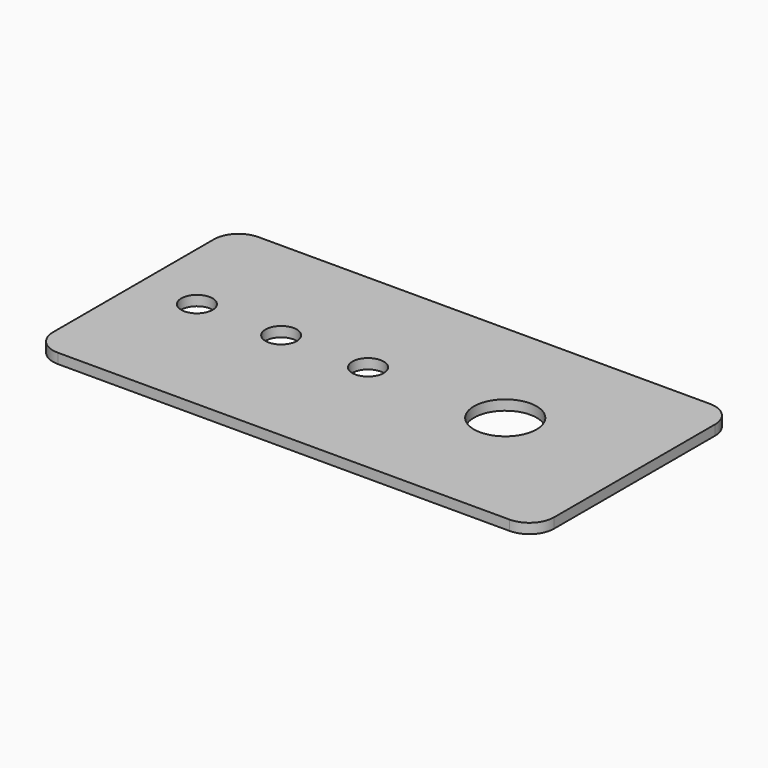
from build123d import *

# Parameters (mm, degrees)
F0_W     = 101.6
F0_H     = 50.8
F1_DEPTH = 2.032
F2_R     = 5
F4_D     = 6.35
F6_D     = 12.7


with BuildPart() as f1:
    # F0 (on Top) → F1 (new body)
    with BuildSketch(Plane.XY):
        with Locations((-1.363633, 4.882393)):
            Rectangle(F0_W, F0_H)
    extrude(amount=F1_DEPTH)

    # F2
    f2_edges = [f1.edges().sort_by_distance(p)[0] for p in [
        (-52.163633, 30.282393, 1.016),
        (49.436367, 30.282393, 1.016),
        (-52.163633, -20.517607, 1.016),
        (49.436367, -20.517607, 1.016),
    ]]
    fillet(f2_edges, radius=F2_R)

    # F4 (through all)
    with Locations(Plane.XY.offset(2.032)):
        with Locations((-40.383019, 6.245364), (-23.299415, 6.245364), (-5.693044, 6.245364)):
            Hole(F4_D / 2)

    # F6 (through all)
    with Locations(Plane.XY.offset(2.032)):
        with Locations((22.099847, 6.288829)):
            Hole(F6_D / 2)


solid = f1.part
